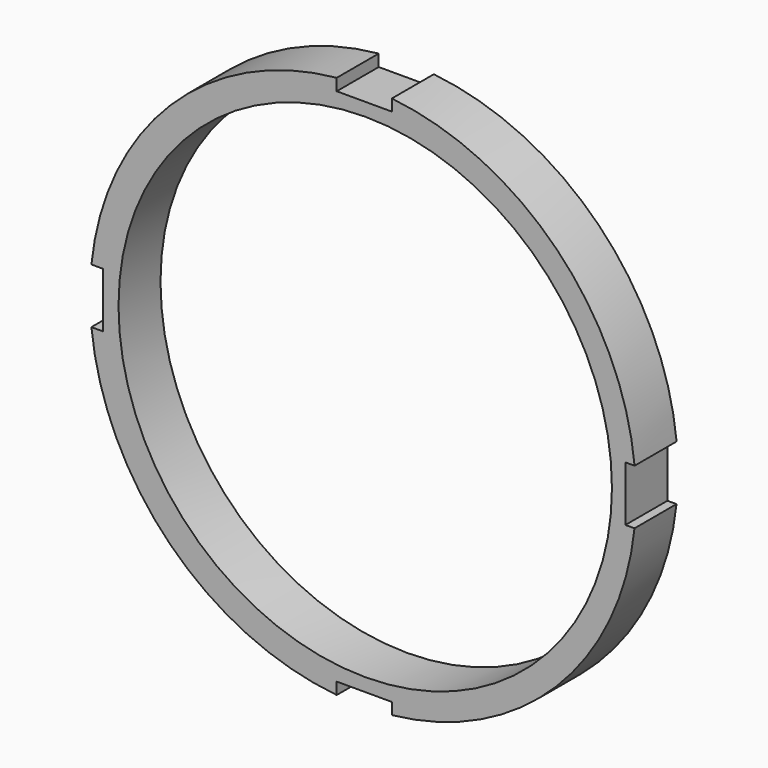
from build123d import *

# Parameters (mm, degrees)
BOX004_W         = 10
BOX004_H         = 15
BOX004_DEPTH     = 10.5
BOX003_W         = 10
BOX003_H         = 15
BOX003_DEPTH     = 10.5
BOX002_W         = 10
BOX002_H         = 15
BOX002_DEPTH     = 10.5
BOX001_W         = 10
BOX001_H         = 15
BOX001_DEPTH     = 10.5
SKETCH017_R      = 52
SKETCH017_R_2    = 47
EXTRUDE004_DEPTH = 10


with BuildPart() as cube004:
    # Box004 → Box004 (new body)
    with BuildSketch(Plane(origin=(5.5, -12, 49.5), x_dir=(0, 0, 1), z_dir=(-1, 0, 0))):
        with Locations((5, 7.5)):
            Rectangle(BOX004_W, BOX004_H)
    extrude(amount=BOX004_DEPTH)


with BuildPart() as cube003:
    # Box003 → Box003 (new body)
    with BuildSketch(Plane(origin=(5.5, -12, -59.5), x_dir=(0, 0, 1), z_dir=(-1, 0, 0))):
        with Locations((5, 7.5)):
            Rectangle(BOX003_W, BOX003_H)
    extrude(amount=BOX003_DEPTH)


with BuildPart() as cube002:
    # Box002 → Box002 (new body)
    with BuildSketch(Plane(origin=(50, -12, -5.35), x_dir=(1, 0, 0), z_dir=(0, 0, 1))):
        with Locations((5, 7.5)):
            Rectangle(BOX002_W, BOX002_H)
    extrude(amount=BOX002_DEPTH)


with BuildPart() as cube001:
    # Box001 → Box001 (new body)
    with BuildSketch(Plane(origin=(-59.5, -12, -5.25), x_dir=(1, 0, 0), z_dir=(0, 0, 1))):
        with Locations((5, 7.5)):
            Rectangle(BOX001_W, BOX001_H)
    extrude(amount=BOX001_DEPTH)


with BuildPart() as brace_jig:
    # Sketch017 → Extrude004 (new body)
    with BuildSketch(Plane.XZ):
        Circle(SKETCH017_R)
        with Locations((0.427685, 0)):
            Circle(SKETCH017_R_2, mode=Mode.SUBTRACT)
    extrude(amount=EXTRUDE004_DEPTH)

    # Cut004: cut Cube001
    add(cube001.part, mode=Mode.SUBTRACT)

    # Cut005: cut Cube002
    add(cube002.part, mode=Mode.SUBTRACT)

    # Cut006: cut Cube003
    add(cube003.part, mode=Mode.SUBTRACT)

    # Cut007: cut Cube004
    add(cube004.part, mode=Mode.SUBTRACT)


solid = brace_jig.part
